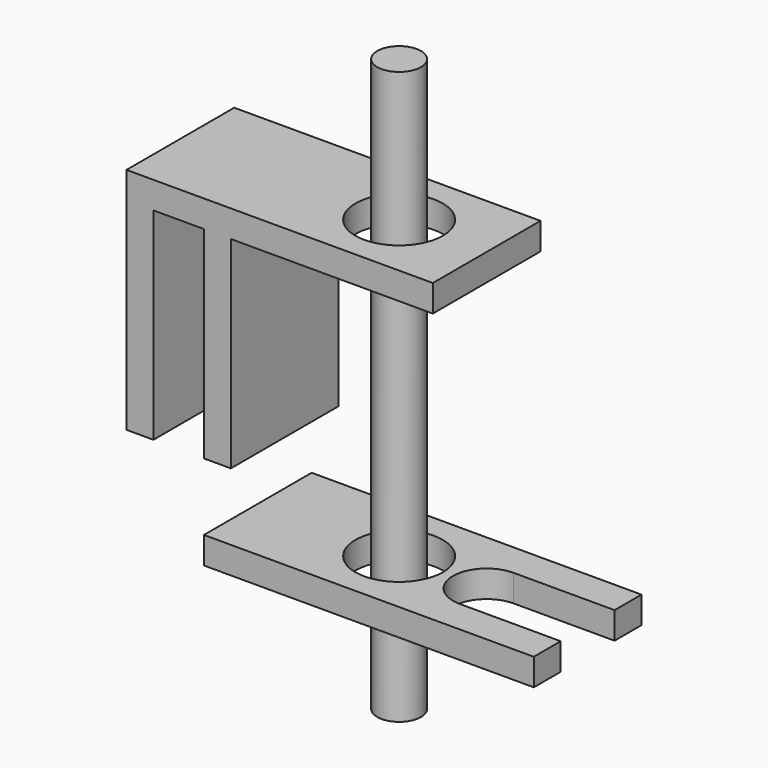
from build123d import *

# Parameters (mm, degrees)
F0_W          = 4
F0_H          = 30
F1_DEPTH      = 10
F1_DEPTH_BACK = 10
F2_R          = 6.5
F3_DEPTH      = 11.1
F4_R          = 3.25
F5_DEPTH      = 25
F5_DEPTH_BACK = 60
F7_R          = 6.5
F8_DEPTH      = 4


with BuildPart() as f1:
    # F0 (on Front) → F1 (new body, two sides)
    with BuildSketch(Plane.XZ) as f1_sk:
        with Locations((2, -15)):
            Rectangle(F0_W, F0_H)
        Polygon((-7.5, 0), (0, 0), (4, 0), (34, 0), (34, 4), (-11.5, 4), (-11.5, 0), align=None)
        with Locations((-9.5, -15)):
            Rectangle(F0_W, F0_H)
    extrude(amount=F1_DEPTH)
    extrude(f1_sk.sketch, amount=-F1_DEPTH_BACK)

    # F2 (on Top) → F3 (cut)
    with BuildSketch(Plane.XY):
        with Locations((21, 0)):
            Circle(F2_R)
    extrude(amount=F3_DEPTH, mode=Mode.SUBTRACT)


with BuildPart() as f5:
    # F4 (on Top) → F5 (new body, two sides)
    with BuildSketch(Plane.XY) as f5_sk:
        with Locations((21, 0)):
            Circle(F4_R)
    extrude(amount=F5_DEPTH)
    extrude(f5_sk.sketch, amount=-F5_DEPTH_BACK)


with BuildPart() as f8:
    # F7 (on offset) → F8 (new body)
    with BuildSketch(Plane.XY.offset(-40)):
        with BuildLine():
            Line((34, 10), (15, 10))
            Line((15, 10), (0, 10))
            Line((0, 10), (0, -10))
            Line((0, -10), (15, -10))
            Line((15, -10), (34, -10))
            Line((34, -10), (49, -10))
            Line((49, -10), (49, -5))
            Line((49, -5), (34, -5))
            ThreePointArc((34, -5), (29, 0), (34, 5))
            Line((34, 5), (49, 5))
            Line((49, 5), (49, 10))
            Line((49, 10), (34, 10))
        make_face()
        with Locations((21, 0)):
            Circle(F7_R, mode=Mode.SUBTRACT)
    extrude(amount=-F8_DEPTH)


solid = Compound([f1.part, f5.part, f8.part])
